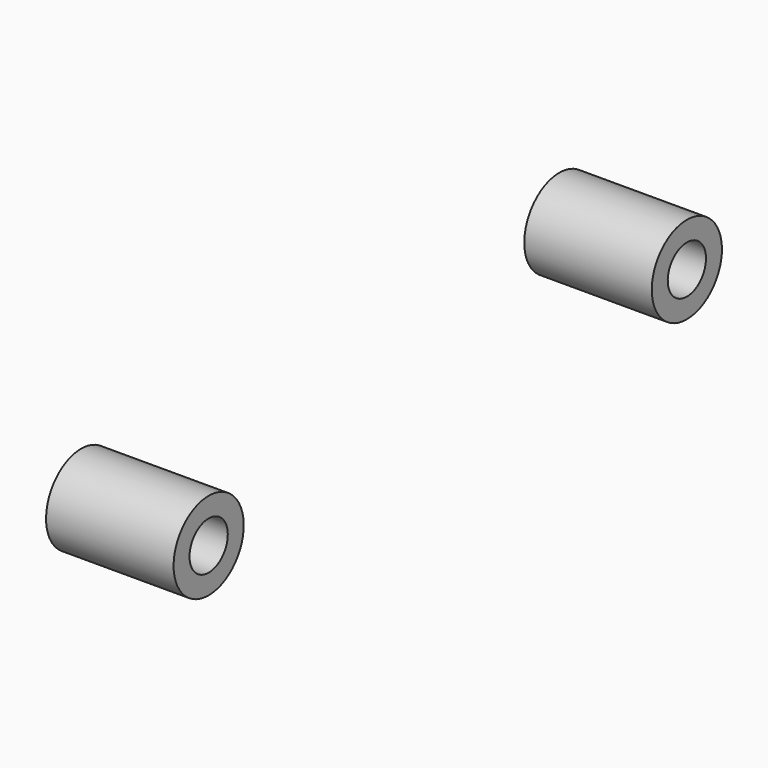
from build123d import *

# Parameters (mm, degrees)
CEN_LM12UU_0_INT_R           = 6
CEN_LM12UU_0_INT_DEPTH       = 34
CEN_LM12UU_0_INT_PITCH_ANGLE = 90
CEN_LM12UU_0_EXT_R           = 11
CEN_LM12UU_0_EXT_DEPTH       = 32
CEN_LM12UU_0_EXT_PITCH_ANGLE = 90


with BuildPart() as cen_lm12uu_0_int:
    # cen_lm12uu_0_int → cen_lm12uu_0_int (new body)
    with BuildSketch(Plane.XY):
        Circle(CEN_LM12UU_0_INT_R)
    extrude(amount=CEN_LM12UU_0_INT_DEPTH)


with BuildPart() as cen_lm12uu_0_int_1:
    # cen_lm12uu_0_int pitch: moved
    add(cen_lm12uu_0_int.part.rotate(Axis((0, 0, 0), (0, 1, 0)), CEN_LM12UU_0_INT_PITCH_ANGLE))


with BuildPart() as cen_lm12uu_0_int_2:
    # cen_lm12uu_0_int placement: moved
    add(cen_lm12uu_0_int_1.part.moved(Location((-17, 0, 0))))


with BuildPart() as cen_lm12uu_0_body:
    # cen_lm12uu_0_ext → cen_lm12uu_0_ext (new body)
    with BuildSketch(Plane.XY):
        Circle(CEN_LM12UU_0_EXT_R)
    extrude(amount=CEN_LM12UU_0_EXT_DEPTH)


with BuildPart() as cen_lm12uu_0_body_1:
    # cen_lm12uu_0_ext pitch: moved
    add(cen_lm12uu_0_body.part.rotate(Axis((0, 0, 0), (0, 1, 0)), CEN_LM12UU_0_EXT_PITCH_ANGLE))


with BuildPart() as cen_lm12uu_0_body_2:
    # cen_lm12uu_0_ext placement: moved
    add(cen_lm12uu_0_body_1.part.moved(Location((-16, 0, 0))))

    # cen_lm12uu_0: cut cen_lm12uu_0_int
    add(cen_lm12uu_0_int_2.part, mode=Mode.SUBTRACT)


with BuildPart() as cen_lm12uu_0_body_3:
    # cen_lm12uu_0 placement: moved
    add(cen_lm12uu_0_body_2.part.moved(Location((0, 75, 0))))


with BuildPart() as clone:
    # Clone base: copy of cen_lm12uu_0 body
    add(cen_lm12uu_0_body_3.part)


with BuildPart() as clone_1:
    # Clone placement: moved
    add(clone.part.moved(Location((0, -150, 0))))


with BuildPart() as central_slider_bear:
    # central_slider_bear base: copy of cen_lm12uu_0 body
    add(cen_lm12uu_0_body_3.part)

    # central_slider_bear: union Clone
    add(clone_1.part)


solid = central_slider_bear.part
